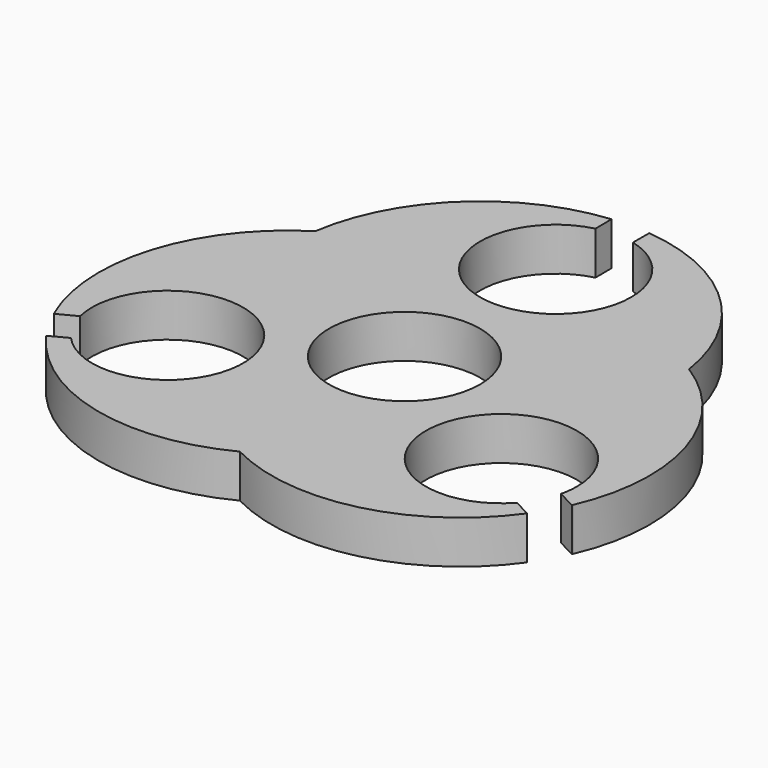
from build123d import *

# Parameters (mm, degrees)
F1_DEPTH = 6.35
F2_R     = 11.1125
F3_DEPTH = 25.4


with BuildPart() as f1:
    # F0 (on Top) → F1 (new body)
    with BuildSketch(Plane.XY):
        with BuildLine():
            ThreePointArc((39.3284180993, -11.1676556984), (28.2905147391, 2.4268815183), (12.7188966218, -5.5838276848))
            ThreePointArc((12.7188966218, -5.5838276848), (19.853965168, -23.886552212), (38.156689649, -16.7514835476))
            ThreePointArc((38.156689649, -16.7514835476), (39.0323303345, -14.0203772503), (39.3284180993, -11.1676556984))
        make_face()
        with BuildLine():
            ThreePointArc((-12.7188965325, -5.5838278884), (-11.6299682207, 7.5956107112), (4.13e-08, 13.890625))
            ThreePointArc((4.13e-08, 13.890625), (-13.890625, 27.7812499794), (0, 41.671875))
            ThreePointArc((0, 41.671875), (-18.1526724101, 34.921039545), (-27.483156869, 17.9494351796))
            ThreePointArc((-27.483156869, 17.9494351796), (-39.2724220199, 2.5836770736), (-38.156689649, -16.7514835476))
            ThreePointArc((-38.156689649, -16.7514835476), (-31.0216209289, 1.5512408599), (-12.7188965325, -5.5838278884))
        make_face()
        with BuildLine():
            ThreePointArc((38.156689649, -16.7514835476), (19.853965168, -23.886552212), (12.7188966218, -5.5838276848))
            ThreePointArc((12.7188966218, -5.5838276848), (1.112e-07, -13.890625), (-12.7188965325, -5.5838278884))
            ThreePointArc((-12.7188965325, -5.5838278884), (-11.8432558598, -8.3149341674), (-11.5471680993, -11.1676556984))
            ThreePointArc((-11.5471680993, -11.1676556984), (-22.5850715474, -24.7621929335), (-38.156689649, -16.7514835476))
            ThreePointArc((-38.156689649, -16.7514835476), (-22.0041057937, -31.7674628309), (0, -30.2825630824))
            ThreePointArc((0, -30.2825630824), (22.0041057937, -31.7674628309), (38.156689649, -16.7514835476))
        make_face()
        with BuildLine():
            ThreePointArc((4.13e-08, 13.890625), (9.822155147, 9.8221551178), (13.890625, 0))
            ThreePointArc((13.890625, 0), (13.5945372536, -2.852721464), (12.7188966218, -5.5838276848))
            ThreePointArc((12.7188966218, -5.5838276848), (28.2905147391, 2.4268815183), (39.3284180993, -11.1676556984))
            ThreePointArc((39.3284180993, -11.1676556984), (39.0323303345, -14.0203772503), (38.156689649, -16.7514835476))
            ThreePointArc((38.156689649, -16.7514835476), (39.2724220199, 2.5836770736), (27.483156869, 17.9494351796))
            ThreePointArc((27.483156869, 17.9494351796), (18.1526724101, 34.921039545), (0, 41.671875))
            ThreePointArc((0, 41.671875), (9.8221551324, 37.6034051324), (13.890625, 27.78125))
            ThreePointArc((13.890625, 27.78125), (9.822155147, 17.9590948822), (4.13e-08, 13.890625))
        make_face()
        with BuildLine():
            ThreePointArc((-11.5471680993, -11.1676556984), (-11.8432558598, -8.3149341674), (-12.7188965325, -5.5838278884))
            ThreePointArc((-12.7188965325, -5.5838278884), (-31.0216209289, 1.5512408599), (-38.156689649, -16.7514835476))
            ThreePointArc((-38.156689649, -16.7514835476), (-22.5850715474, -24.7621929335), (-11.5471680993, -11.1676556984))
        make_face()
        with BuildLine():
            ThreePointArc((12.7188966218, -5.5838276848), (13.5945372536, -2.852721464), (13.890625, 0))
            ThreePointArc((13.890625, 0), (9.822155147, 9.8221551178), (4.13e-08, 13.890625))
            ThreePointArc((4.13e-08, 13.890625), (-11.6299682207, 7.5956107112), (-12.7188965325, -5.5838278884))
            ThreePointArc((-12.7188965325, -5.5838278884), (1.112e-07, -13.890625), (12.7188966218, -5.5838276848))
        make_face()
        with BuildLine():
            ThreePointArc((0, 41.671875), (-13.890625, 27.7812499794), (4.13e-08, 13.890625))
            ThreePointArc((4.13e-08, 13.890625), (9.822155147, 17.9590948822), (13.890625, 27.78125))
            ThreePointArc((13.890625, 27.78125), (9.8221551324, 37.6034051324), (0, 41.671875))
        make_face()
    extrude(amount=F1_DEPTH)

    # F2 (on face) → F3 (cut)
    with BuildSketch(Plane.XY.offset(6.35)):
        Circle(F2_R)
        with BuildLine():
            ThreePointArc((-2.7563354479, 38.546484375), (-6.8138784325, 19.002940541), (11.1125, 27.78125))
            ThreePointArc((11.1125, 27.78125), (8.778309459, 34.5951284325), (2.7563354479, 38.546484375))
            ThreePointArc((2.7563354479, 38.546484375), (1.3890625, 38.8065917916), (0, 38.89375))
            ThreePointArc((0, 38.89375), (-1.3890625, 38.8065917916), (-2.7563354479, 38.546484375))
        make_face()
        with BuildLine():
            ThreePointArc((-32.8083688542, -20.3264513127), (-20.5696332051, -23.2568461842), (-13.4437000492, -12.8840480541))
            ThreePointArc((-13.4437000492, -12.8840480541), (-25.8453262807, -1.846575073), (-35.3696050767, -15.4448932194))
            ThreePointArc((-35.3696050767, -15.4448932194), (-34.9646871017, -16.7764834776), (-34.3964962208, -18.0470149826))
            ThreePointArc((-34.3964962208, -18.0470149826), (-33.6739453696, -19.2365575205), (-32.8083688542, -20.3264513127))
        make_face()
        with BuildLine():
            ThreePointArc((35.3696050767, -15.4448932194), (35.5936730303, -14.1731742856), (35.6687000492, -12.8840480541))
            ThreePointArc((35.6687000492, -12.8840480541), (14.183401919, -8.8974812101), (32.8083688542, -20.3264513127))
            ThreePointArc((32.8083688542, -20.3264513127), (33.6739453696, -19.2365575205), (34.3964962208, -18.0470149826))
            ThreePointArc((34.3964962208, -18.0470149826), (34.9646871017, -16.7764834776), (35.3696050767, -15.4448932194))
        make_face()
        with BuildLine():
            Line((0, 38.89375), (0, 41.671875))
            ThreePointArc((0, 41.671875), (-1.3890625, 41.6371267062), (-2.7746501706, 41.53296875))
            Line((-2.7746501706, 41.53296875), (-2.7563354479, 38.546484375))
            ThreePointArc((-2.7563354479, 38.546484375), (-1.3890625, 38.8065917916), (0, 38.89375))
        make_face()
        with BuildLine():
            ThreePointArc((2.7746501706, 41.53296875), (1.3890625, 41.6371267062), (0, 41.671875))
            Line((0, 41.671875), (0, 38.89375))
            ThreePointArc((0, 38.89375), (1.3890625, 38.8065917916), (2.7563354479, 38.546484375))
            Line((2.7563354479, 38.546484375), (2.7746501706, 41.53296875))
        make_face()
        with BuildLine():
            ThreePointArc((35.3622093256, -21.6797353444), (36.1386828471, -20.5274372306), (36.8565702637, -19.3377567147))
            Line((36.8565702637, -19.3377567147), (34.3964962208, -18.0470149826))
            ThreePointArc((34.3964962208, -18.0470149826), (33.6739453696, -19.2365575205), (32.8083688542, -20.3264513127))
            Line((32.8083688542, -20.3264513127), (35.3622093256, -21.6797353444))
        make_face()
        with BuildLine():
            ThreePointArc((36.8565702637, -19.3377567147), (37.5140757337, -18.1136698592), (38.1095544647, -16.8582387963))
            Line((38.1095544647, -16.8582387963), (35.3696050767, -15.4448932194))
            ThreePointArc((35.3696050767, -15.4448932194), (34.9646871017, -16.7764834776), (34.3964962208, -18.0470149826))
            Line((34.3964962208, -18.0470149826), (36.8565702637, -19.3377567147))
        make_face()
        with BuildLine():
            Line((-34.3964962208, -18.0470149826), (-36.8565702637, -19.3377567147))
            ThreePointArc((-36.8565702637, -19.3377567147), (-36.1386828471, -20.5274372306), (-35.3622093256, -21.6797353444))
            Line((-35.3622093256, -21.6797353444), (-32.8083688542, -20.3264513127))
            ThreePointArc((-32.8083688542, -20.3264513127), (-33.6739453696, -19.2365575205), (-34.3964962208, -18.0470149826))
        make_face()
        with BuildLine():
            Line((-35.3696050767, -15.4448932194), (-38.1095544647, -16.8582387963))
            ThreePointArc((-38.1095544647, -16.8582387963), (-37.5140757337, -18.1136698592), (-36.8565702637, -19.3377567147))
            Line((-36.8565702637, -19.3377567147), (-34.3964962208, -18.0470149826))
            ThreePointArc((-34.3964962208, -18.0470149826), (-34.9646871017, -16.7764834776), (-35.3696050767, -15.4448932194))
        make_face()
    extrude(amount=-F3_DEPTH, mode=Mode.SUBTRACT)


solid = f1.part
